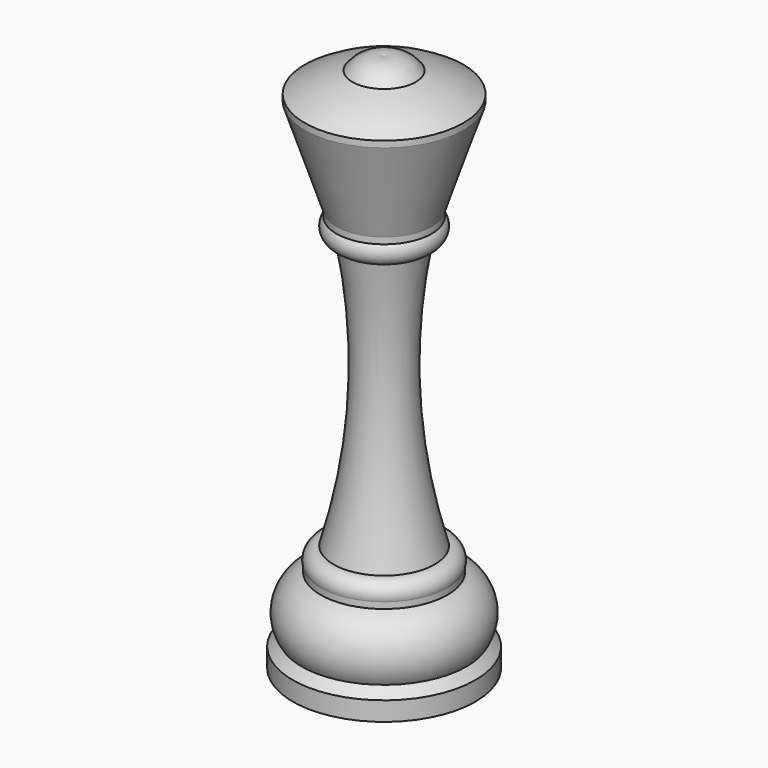
from build123d import *


with BuildPart() as f1:
    # F0 (on Front) → F1 (revolve)
    with BuildSketch(Plane.XZ):
        with BuildLine():
            ThreePointArc((12.5, -5.27), (8.884681, -3.326098), (5, -2))
            ThreePointArc((5, -2), (2.79737, -0.256576), (0, 0))
            Line((0, 0), (0, -85))
            Line((0, -85), (14.414214, -85))
            Line((14.414214, -85), (14.414214, -82))
            Line((14.414214, -82), (13, -80.585786))
            ThreePointArc((13, -80.585786), (13.690372, -75.368221), (10, -71.615786))
            Line((10, -71.615786), (10, -70.615786))
            ThreePointArc((10, -70.615786), (9.674181, -68.799312), (8, -68.022876))
            ThreePointArc((8, -68.022876), (4.460945, -46.927558), (6, -25.592876))
            ThreePointArc((6, -25.592876), (7.822876, -24.415751), (7.5, -22.27))
            Line((7.5, -22.27), (7.5, -21.27))
            Line((7.5, -21.27), (12.5, -6.27))
            Line((12.5, -6.27), (12.5, -5.27))
        make_face()
    revolve(axis=Axis((0, 0, -42.5), (0, 0, 1)))


solid = f1.part
